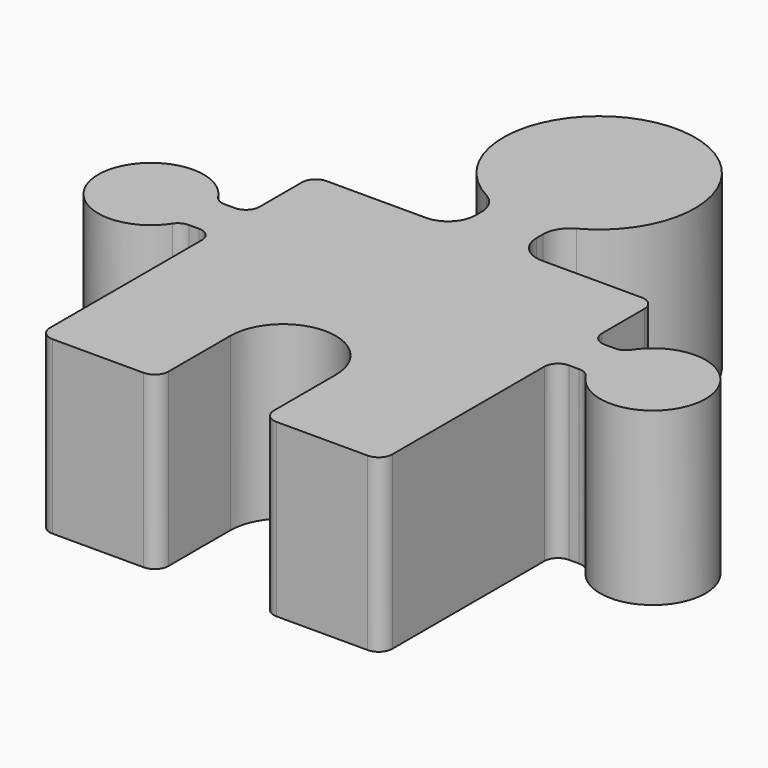
from build123d import *

# Parameters (mm, degrees)
F1_DEPTH = 25


with BuildPart() as f1:
    # F0 (on Top) → F1 (new body)
    with BuildSketch(Plane.XY):
        with BuildLine():
            ThreePointArc((-25, -23), (-24.414214, -24.414214), (-23, -25))
            Line((-23, -25), (-9.7, -25))
            ThreePointArc((-9.7, -25), (-8.285786, -24.414214), (-7.7, -23))
            Line((-7.7, -23), (-7.7, -11.7))
            ThreePointArc((-7.7, -11.7), (0, -4), (7.7, -11.7))
            Line((7.7, -11.7), (7.7, -23))
            ThreePointArc((7.7, -23), (8.285786, -24.414214), (9.7, -25))
            Line((9.7, -25), (23, -25))
            ThreePointArc((23, -25), (24.414214, -24.414214), (25, -23))
            Line((25, -23), (25, 4.728261))
            ThreePointArc((25, 4.728261), (25.585786, 6.142474), (27, 6.728261))
            Line((27, 6.728261), (28.5, 6.728261))
            ThreePointArc((28.5, 6.728261), (29.455533, 6.485235), (30.178846, 5.815217))
            ThreePointArc((30.178846, 5.815217), (44.342405, 10), (30.178846, 14.184783))
            ThreePointArc((30.178846, 14.184783), (29.455533, 13.514765), (28.5, 13.271739))
            Line((28.5, 13.271739), (27, 13.271739))
            ThreePointArc((27, 13.271739), (25.585786, 13.857526), (25, 15.271739))
            Line((25, 15.271739), (25, 23))
            ThreePointArc((25, 23), (24.414214, 24.414214), (23, 25))
            Line((23, 25), (8.470588, 25))
            ThreePointArc((8.470588, 25), (5.642161, 26.171573), (4.470588, 29))
            Line((4.470588, 29), (4.470588, 30.117647))
            ThreePointArc((4.470588, 30.117647), (5.040616, 32.17563), (6.588235, 33.647059))
            ThreePointArc((6.588235, 33.647059), (0, 60), (-6.588235, 33.647059))
            ThreePointArc((-6.588235, 33.647059), (-5.040617, 32.17563), (-4.470588, 30.117647))
            Line((-4.470588, 30.117647), (-4.470588, 29))
            ThreePointArc((-4.470588, 29), (-5.642161, 26.171573), (-8.470588, 25))
            Line((-8.470588, 25), (-23, 25))
            ThreePointArc((-23, 25), (-24.414214, 24.414214), (-25, 23))
            Line((-25, 23), (-25, 15.271739))
            ThreePointArc((-25, 15.271739), (-25.585786, 13.857526), (-27, 13.271739))
            Line((-27, 13.271739), (-28.5, 13.271739))
            ThreePointArc((-28.5, 13.271739), (-29.455533, 13.514765), (-30.178846, 14.184783))
            ThreePointArc((-30.178846, 14.184783), (-44.342405, 10), (-30.178846, 5.815217))
            ThreePointArc((-30.178846, 5.815217), (-29.455533, 6.485235), (-28.5, 6.728261))
            Line((-28.5, 6.728261), (-27, 6.728261))
            ThreePointArc((-27, 6.728261), (-25.585786, 6.142474), (-25, 4.728261))
            Line((-25, 4.728261), (-25, -23))
        make_face()
    extrude(amount=F1_DEPTH)


solid = f1.part
